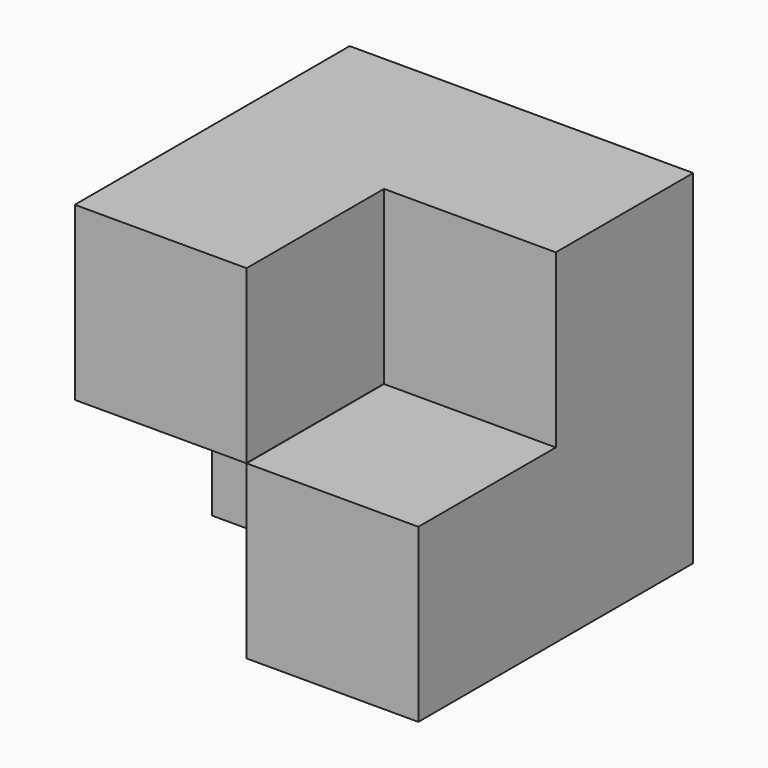
from build123d import *

# Parameters (mm, degrees)
F0_W     = 38.1
F0_H     = 38.1
F1_DEPTH = 19.05
F2_W     = 19.05
F2_H     = 19.05
F3_DEPTH = 19.05
F5_SIZE  = 0.0254
F4_W     = 19.05
F4_H     = 19.05
F6_DEPTH = 19.05


with BuildPart() as f1:
    # F0 (on Front) → F1 (new body)
    with BuildSketch(Plane.XZ):
        with Locations((19.05, 19.05)):
            Rectangle(F0_W, F0_H)
    extrude(amount=F1_DEPTH)

    # F2 (on face) → F3 (join)
    with BuildSketch(Plane.XZ.offset(19.05)):
        with Locations((9.525, 28.575)):
            Rectangle(F2_W, F2_H)
    extrude(amount=F3_DEPTH)

    # F5
    f5_edges = [f1.edges().sort_by_distance(p)[0] for p in [
        (19.05, -28.575, 19.05),
    ]]
    chamfer(f5_edges, length=F5_SIZE)

    # F4 (on face) → F6 (join)
    with BuildSketch(Plane.XZ.offset(19.05)):
        with Locations((28.575, 9.525)):
            Rectangle(F4_W, F4_H)
    extrude(amount=F6_DEPTH)


solid = f1.part
